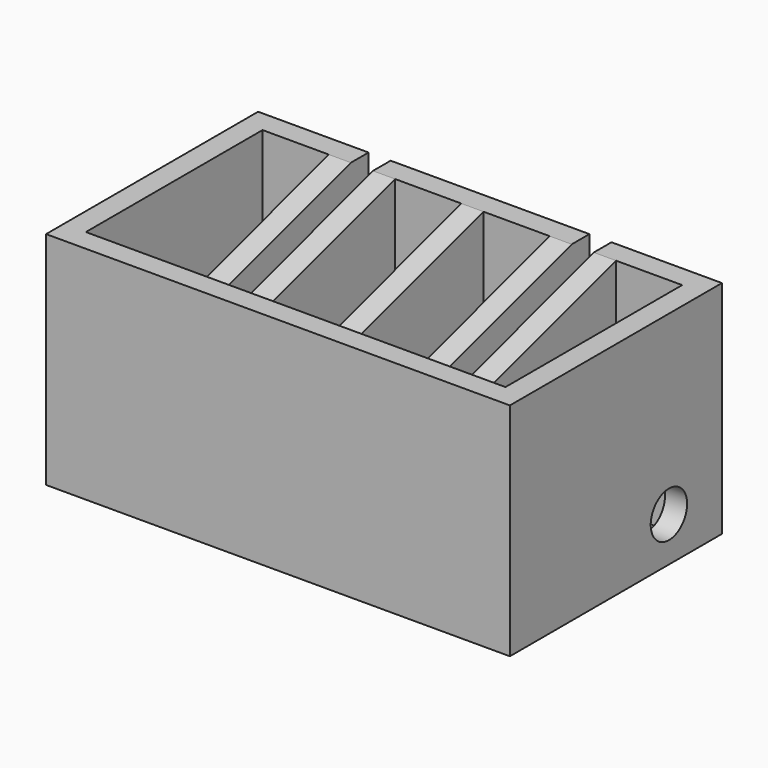
from build123d import *

# Parameters (mm, degrees)
F0_W     = 15
F0_H     = 50
F1_DEPTH = 50
F2_R     = 5.15
F3_DEPTH = 105.001
F5_DEPTH = 75


with BuildPart() as f1:
    # F0 (on Top) → F1 (new body)
    with BuildSketch(Plane.XY):
        Polygon((52.5, -30), (52.5, 30), (27.5, 30), (27.5, 25), (27.5, -25), (22.5, -25), (22.5, 25), (22.5, 30), (-22.5, 30), (-22.5, 25), (-22.5, -25), (-27.5, -25), (-27.5, 25), (-27.5, 30), (-52.5, 30), (-52.5, -30), align=None)
        with Locations((-40, 0)):
            Rectangle(F0_W, F0_H, mode=Mode.SUBTRACT)
        with Locations((-10, 0)):
            Rectangle(F0_W, F0_H, mode=Mode.SUBTRACT)
        with Locations((10, 0)):
            Rectangle(F0_W, F0_H, mode=Mode.SUBTRACT)
        with Locations((40, 0)):
            Rectangle(F0_W, F0_H, mode=Mode.SUBTRACT)
    extrude(amount=F1_DEPTH)

    # F2 (on face) → F3 (cut, through all)
    with BuildSketch(Plane.YZ.offset(52.5)):
        with Locations((15, 10)):
            Circle(F2_R)
    extrude(amount=-F3_DEPTH, mode=Mode.SUBTRACT)

    # F4 (on face) → F5 (cut)
    with BuildSketch(Plane.YZ.offset(32.5)):
        Polygon((-25, 35), (25, 50), (-25, 50), align=None)
    extrude(amount=-F5_DEPTH, mode=Mode.SUBTRACT)


solid = f1.part
